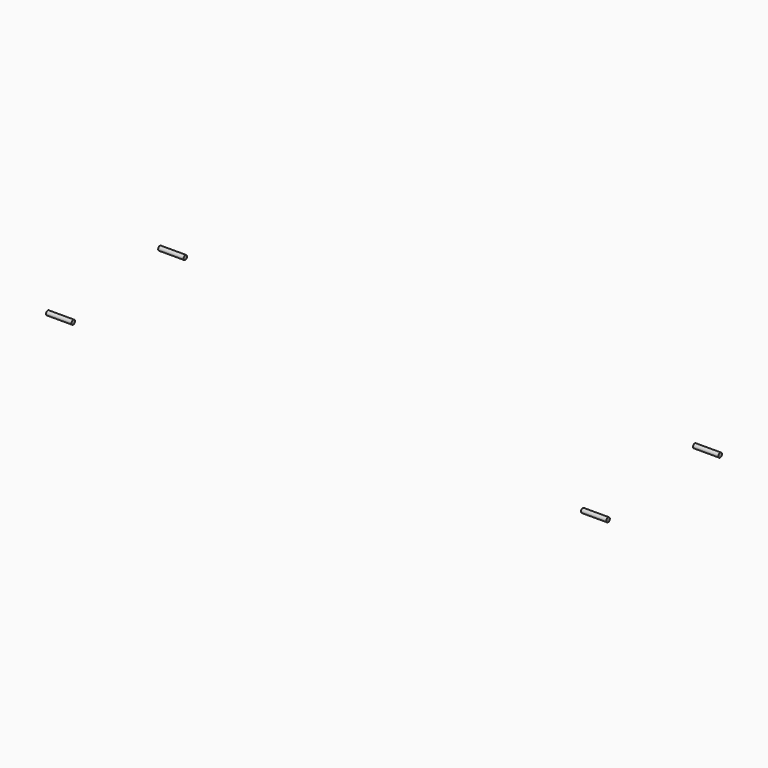
from build123d import *

# Parameters (mm, degrees)
CYLINDER013_R           = 1.7
CYLINDER013_DEPTH       = 20
CYLINDER013_PITCH_ANGLE = 90
CYLINDER015_R           = 1.7
CYLINDER015_DEPTH       = 20
CYLINDER015_PITCH_ANGLE = 90
CYLINDER016_R           = 1.7
CYLINDER016_DEPTH       = 20
CYLINDER016_PITCH_ANGLE = 90
CYLINDER017_R           = 1.7
CYLINDER017_DEPTH       = 20
CYLINDER017_PITCH_ANGLE = 90


with BuildPart() as cylinder013:
    # Cylinder013 → Cylinder013 (new body)
    with BuildSketch(Plane.XY):
        Circle(CYLINDER013_R)
    extrude(amount=CYLINDER013_DEPTH)


with BuildPart() as cylinder013_1:
    # Cylinder013 pitch: moved
    add(cylinder013.part.rotate(Axis((0, 0, 0), (0, 1, 0)), CYLINDER013_PITCH_ANGLE))


with BuildPart() as cylinder013_2:
    # Cylinder013 placement: moved
    add(cylinder013_1.part.moved(Location((200, -65, 65))))


with BuildPart() as cylinder015:
    # Cylinder015 → Cylinder015 (new body)
    with BuildSketch(Plane.XY):
        Circle(CYLINDER015_R)
    extrude(amount=CYLINDER015_DEPTH)


with BuildPart() as cylinder015_1:
    # Cylinder015 pitch: moved
    add(cylinder015.part.rotate(Axis((0, 0, 0), (0, 1, 0)), CYLINDER015_PITCH_ANGLE))


with BuildPart() as cylinder015_2:
    # Cylinder015 placement: moved
    add(cylinder015_1.part.moved(Location((-220, -65, 65))))


with BuildPart() as cylinder016:
    # Cylinder016 → Cylinder016 (new body)
    with BuildSketch(Plane.XY):
        Circle(CYLINDER016_R)
    extrude(amount=CYLINDER016_DEPTH)


with BuildPart() as cylinder016_1:
    # Cylinder016 pitch: moved
    add(cylinder016.part.rotate(Axis((0, 0, 0), (0, 1, 0)), CYLINDER016_PITCH_ANGLE))


with BuildPart() as cylinder016_2:
    # Cylinder016 placement: moved
    add(cylinder016_1.part.moved(Location((-220, 45, 65))))


with BuildPart() as fusion004:
    # Cylinder017 → Cylinder017 (new body)
    with BuildSketch(Plane.XY):
        Circle(CYLINDER017_R)
    extrude(amount=CYLINDER017_DEPTH)


with BuildPart() as fusion004_1:
    # Cylinder017 pitch: moved
    add(fusion004.part.rotate(Axis((0, 0, 0), (0, 1, 0)), CYLINDER017_PITCH_ANGLE))


with BuildPart() as fusion004_2:
    # Cylinder017 placement: moved
    add(fusion004_1.part.moved(Location((200, 45, 65))))

    # Fusion004: union Cylinder013, Cylinder015, Cylinder016
    add(cylinder013_2.part)
    add(cylinder015_2.part)
    add(cylinder016_2.part)


solid = fusion004_2.part
